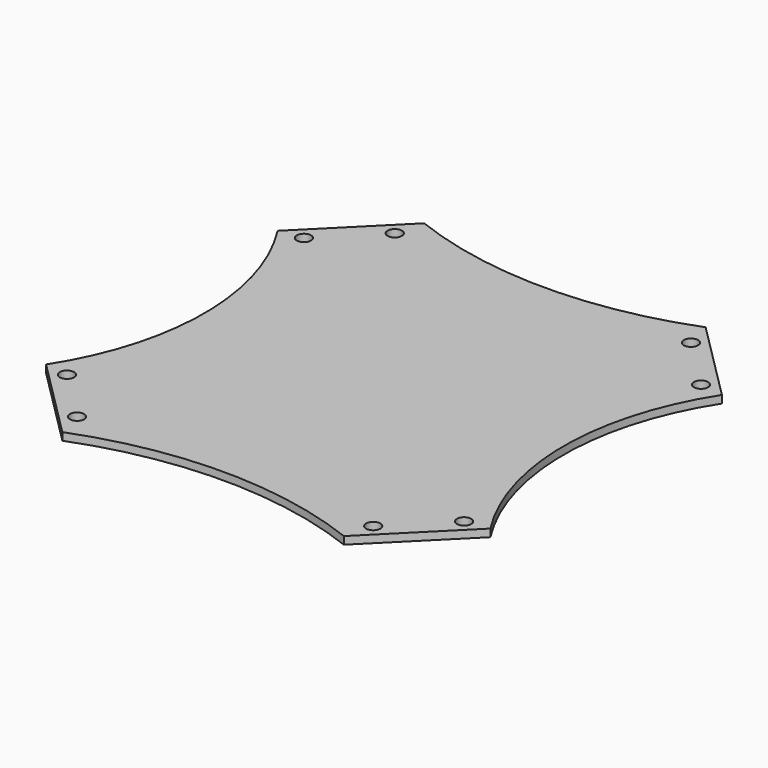
from build123d import *

# Parameters (mm, degrees)
F0_R     = 1.5
F1_DEPTH = 1.6002


with BuildPart() as f1:
    # F0 (on Top) → F1 (new body)
    with BuildSketch(Plane.XY):
        with BuildLine():
            Line((-29.574639, 47.5), (-46.669048, 30.405592))
            ThreePointArc((-46.669048, 30.405592), (-37.75, 0), (-46.669048, -30.405592))
            Line((-46.669048, -30.405592), (-29.574639, -47.5))
            ThreePointArc((-29.574639, -47.5), (0, -42), (29.574639, -47.5))
            Line((29.574639, -47.5), (46.669048, -30.405592))
            ThreePointArc((46.669048, -30.405592), (37.75, 0), (46.669048, 30.405592))
            Line((46.669048, 30.405592), (29.574639, 47.5))
            ThreePointArc((29.574639, 47.5), (0, 42), (-29.574639, 47.5))
        make_face()
        with Locations((-31.112698, -41.7193)):
            Circle(F0_R, mode=Mode.SUBTRACT)
        with Locations((-41.7193, -31.112698)):
            Circle(F0_R, mode=Mode.SUBTRACT)
        with Locations((31.112698, -41.7193)):
            Circle(F0_R, mode=Mode.SUBTRACT)
        with Locations((41.7193, -31.112698)):
            Circle(F0_R, mode=Mode.SUBTRACT)
        with Locations((-41.7193, 31.112698)):
            Circle(F0_R, mode=Mode.SUBTRACT)
        with Locations((-31.112698, 41.7193)):
            Circle(F0_R, mode=Mode.SUBTRACT)
        with Locations((41.7193, 31.112698)):
            Circle(F0_R, mode=Mode.SUBTRACT)
        with Locations((31.112698, 41.7193)):
            Circle(F0_R, mode=Mode.SUBTRACT)
    extrude(amount=F1_DEPTH)


solid = f1.part
